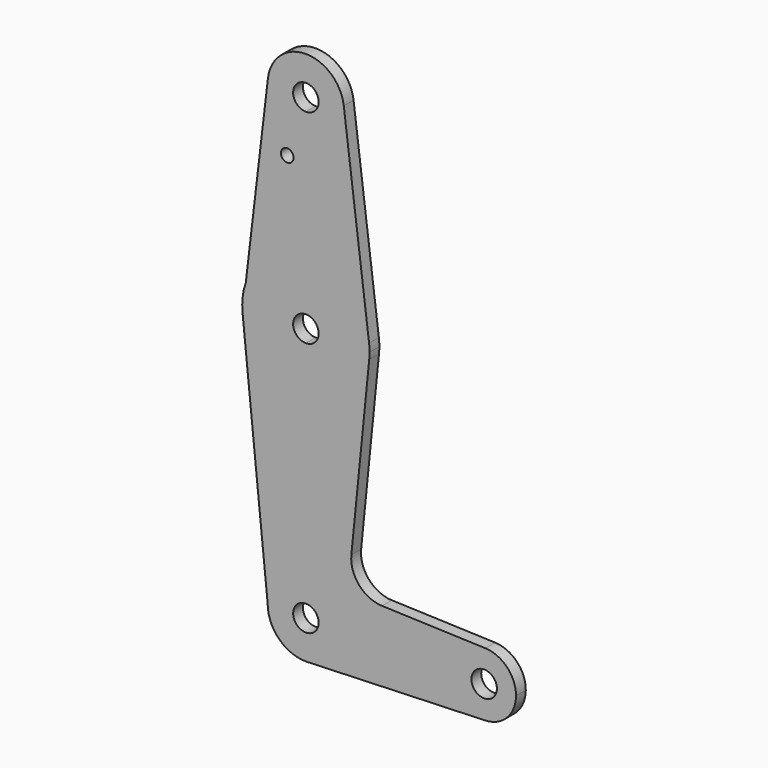
from build123d import *

# Parameters (mm, degrees)
F0_R     = 1.5875
F1_DEPTH = 3.048


with BuildPart() as f1:
    # F0 (on Front) → F1 (new body)
    with BuildSketch(Plane.XZ):
        with BuildLine():
            ThreePointArc((3.175, 0), (-2.2450640303, -2.2450640303), (0, 3.175))
            Line((0, 3.175), (0, 9.525))
            ThreePointArc((0, 9.525), (-6.7351920908, 6.7351920908), (-9.525, 0))
            ThreePointArc((-9.525, 0), (-6.7351920908, -6.7351920908), (0, -9.525))
            Line((0, -9.525), (0.6773435479, -9.500885786))
            ThreePointArc((0.6773435479, -9.500885786), (6.9705567315, -6.4912990883), (9.525, 0))
            Line((9.525, 0), (3.175, 0))
        make_face()
        with BuildLine():
            ThreePointArc((-9.525, 0), (-6.7351920908, 6.7351920908), (0, 9.525))
            Line((0, 9.525), (0, 47.625))
            ThreePointArc((0, 47.625), (-10.644756084, 51.722700101), (-15.7942028036, 61.9003804205))
            Line((-15.7942028036, 61.9003804205), (-9.525, 0))
        make_face()
        with BuildLine():
            Line((0, 47.625), (0, 9.525))
            ThreePointArc((0, 9.525), (6.7351920908, 6.7351920908), (9.525, 0))
            Line((9.525, 0), (36.5125, 0))
            ThreePointArc((36.5125, 0), (38.9380895153, 5.7116327839), (44.7324052746, 7.9324746146))
            Line((44.7324052746, 7.9324746146), (18.968327868, 8.8497055806))
            ThreePointArc((18.968327868, 8.8497055818), (13.2611590686, 11.5674236998), (11.3408358697, 17.5898921544))
            Line((11.3408358685, 17.5898921545), (15.7954255641, 61.9125))
            ThreePointArc((15.7954255641, 61.9125), (10.6492737428, 51.7267849017), (0, 47.625))
        make_face()
        with BuildLine():
            Line((36.5125, 0), (9.525, 0))
            ThreePointArc((9.525, 0), (6.9705567315, -6.4912990883), (0.6773435479, -9.500885786))
            Line((0.6773435479, -9.500885786), (44.7324052746, -7.9324746146))
            ThreePointArc((44.7324052746, -7.9324746146), (38.9380895153, -5.7116327839), (36.5125, 0))
        make_face()
        with BuildLine():
            ThreePointArc((-15.7942028036, 61.9003804205), (-10.644756084, 51.722700101), (0, 47.625))
            Line((0, 47.625), (0, 60.325))
            ThreePointArc((0, 60.325), (-3.175, 63.5), (0, 66.675))
            Line((0, 66.675), (0, 79.375))
            ThreePointArc((0, 79.375), (-9.186503804, 76.4469599852), (-14.9842264132, 68.7429556358))
            Line((-14.9842264132, 68.7429556358), (-15.7942028036, 61.9003804205))
        make_face()
        with BuildLine():
            Line((0, 60.325), (0, 47.625))
            ThreePointArc((0, 47.625), (10.6492737428, 51.7267849017), (15.7954255641, 61.9125))
            ThreePointArc((15.7954255641, 61.9125), (15.8550939106, 62.7052534459), (15.875, 63.5))
            ThreePointArc((15.875, 63.5), (15.8438414904, 64.4941387366), (15.7504882737, 65.484375))
            ThreePointArc((15.7504882737, 65.484375), (10.5003255158, 75.40625), (0, 79.375))
            Line((0, 79.375), (0, 66.675))
            ThreePointArc((0, 66.675), (2.2450640303, 65.7450640303), (3.175, 63.5))
            ThreePointArc((3.175, 63.5), (2.2450640303, 61.2549359697), (0, 60.325))
        make_face()
        with BuildLine():
            ThreePointArc((44.7324052746, 7.9324746146), (38.9380895153, 5.7116327839), (36.5125, 0))
            ThreePointArc((36.5125, 0), (38.9380895153, -5.7116327839), (44.7324052746, -7.9324746146))
            ThreePointArc((44.7324052746, -7.9324746146), (50.1616327839, -5.5119104847), (52.3875, 0))
            ThreePointArc((52.3875, 0), (50.1616327839, 5.5119104847), (44.7324052746, 7.9324746146))
        make_face()
        with BuildLine():
            ThreePointArc((47.625, 0), (44.45, -3.175), (41.275, 0))
            ThreePointArc((41.275, 0), (44.45, 3.175), (47.625, 0))
        make_face(mode=Mode.SUBTRACT)
        with BuildLine():
            ThreePointArc((0, -9.525), (0.3388863295, -9.5189695375), (0.6773435479, -9.500885786))
            Line((0.6773435479, -9.500885786), (0, -9.525))
        make_face()
        with BuildLine():
            ThreePointArc((-14.9842264132, 68.7429556358), (-15.7649337188, 65.3661430393), (-15.7942028036, 61.9003804205))
            Line((-15.7942028036, 61.9003804205), (-14.9842264132, 68.7429556358))
        make_face()
        with BuildLine():
            Line((-9.4589602313, 115.4196858236), (-14.9842264132, 68.7429556358))
            ThreePointArc((-14.9842264132, 68.7429556358), (-9.186503804, 76.4469599852), (0, 79.375))
            Line((0, 79.375), (0, 104.775))
            ThreePointArc((0, 104.775), (-7.120064342, 107.9730490151), (-9.4589602313, 115.4196858236))
        make_face()
        with Locations((-4.6485150233, 100.0252)):
            Circle(F0_R, mode=Mode.SUBTRACT)
        with BuildLine():
            Line((0, 104.775), (0, 79.375))
            ThreePointArc((0, 79.375), (10.5003255158, 75.40625), (15.7504882737, 65.484375))
            Line((15.7504882737, 65.484375), (9.4502929642, 115.490625))
            ThreePointArc((9.4502929642, 115.490625), (9.5063048942, 114.896483242), (9.525, 114.3))
            ThreePointArc((9.525, 114.3), (6.7351920908, 107.5648079092), (0, 104.775))
        make_face()
        with BuildLine():
            ThreePointArc((9.4502929642, 115.490625), (-0.0357333467, 123.8249329724), (-9.4589602313, 115.4196858236))
            ThreePointArc((-9.4589602313, 115.4196858236), (-7.120064342, 107.9730490151), (0, 104.775))
            ThreePointArc((0, 104.775), (6.7351920908, 107.5648079092), (9.525, 114.3))
            ThreePointArc((9.525, 114.3), (9.5063048942, 114.896483242), (9.4502929642, 115.490625))
        make_face()
        with BuildLine():
            ThreePointArc((3.175, 114.3), (2.2450640303, 112.0549359697), (0, 111.125))
            ThreePointArc((0, 111.125), (-2.2450640303, 116.5450640303), (3.175, 114.3))
        make_face(mode=Mode.SUBTRACT)
        with BuildLine():
            Line((0, 9.525), (0, 3.175))
            ThreePointArc((0, 3.175), (2.2450640303, 2.2450640303), (3.175, 0))
            Line((3.175, 0), (9.525, 0))
            ThreePointArc((9.525, 0), (6.7351920908, 6.7351920908), (0, 9.525))
        make_face()
    extrude(amount=F1_DEPTH)


solid = f1.part
